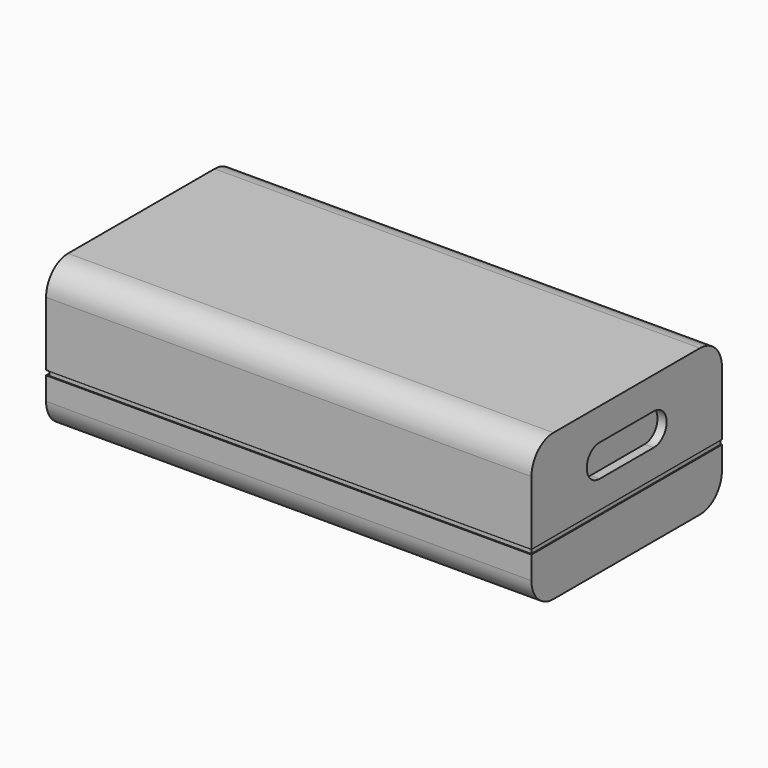
from build123d import *

# Parameters (mm, degrees)
SKETCH_W        = 53
SKETCH_H        = 26
PAD_DEPTH       = 16
FILLET_R        = 3
SKETCH001_W     = 3.5
SKETCH001_H     = 2
POCKET_DEPTH    = 3
SKETCH002_W     = 26
SKETCH002_H     = 0.5
POCKET001_DEPTH = 0.3
SKETCH003_W     = 53
SKETCH003_H     = 0.5
POCKET002_DEPTH = 0.1
SKETCH004_W     = 26
SKETCH004_H     = 0.5
POCKET003_DEPTH = 0.1
SKETCH005_W     = 53
SKETCH005_H     = 0.5
POCKET004_DEPTH = 0.1
SKETCH006_W     = 3.1
SKETCH006_H     = 1
PAD001_DEPTH    = 3
POCKET005_DEPTH = 1


with BuildPart() as part:
    # Sketch → Pad (new body)
    with BuildSketch(Plane.XY):
        Rectangle(SKETCH_W, SKETCH_H)
    extrude(amount=PAD_DEPTH)

    # Fillet
    fillet_edges = [part.edges().sort_by_distance(p)[0] for p in [
        (0, -13, 16),
        (0, -13, 0),
        (0, 13, 16),
        (0, 13, 0),
    ]]
    fillet(fillet_edges, radius=FILLET_R)

    # Sketch001 (on Face2 of Fillet) → Pocket (cut)
    with BuildSketch(Plane(origin=(-26.5, 0, 0), x_dir=(0, -1, 0), z_dir=(-1, 0, 0))):
        with Locations((-2.45, 2)):
            Rectangle(SKETCH001_W, SKETCH001_H)
        with Locations((2.45, 2)):
            Rectangle(SKETCH001_W, SKETCH001_H)
    extrude(amount=-POCKET_DEPTH, mode=Mode.SUBTRACT)

    # Sketch002 (on Face2 of Pocket) → Pocket001 (cut)
    with BuildSketch(Plane(origin=(-26.5, 0, 0), x_dir=(0, -1, 0), z_dir=(-1, 0, 0))):
        with Locations((0, 5.75)):
            Rectangle(SKETCH002_W, SKETCH002_H)
    extrude(amount=-POCKET001_DEPTH, mode=Mode.SUBTRACT)

    # Sketch003 (on Face1 of Pocket001) → Pocket002 (cut)
    with BuildSketch(Plane(origin=(0, 13, 0), x_dir=(-1, 0, 0), z_dir=(0, 1, 0))):
        with Locations((0, 5.75)):
            Rectangle(SKETCH003_W, SKETCH003_H)
    extrude(amount=-POCKET002_DEPTH, mode=Mode.SUBTRACT)

    # Sketch004 (on Face3 of Pocket002) → Pocket003 (cut)
    with BuildSketch(Plane.YZ.offset(26.5)):
        with Locations((0, 5.75)):
            Rectangle(SKETCH004_W, SKETCH004_H)
    extrude(amount=-POCKET003_DEPTH, mode=Mode.SUBTRACT)

    # Sketch005 (on Face10 of Pocket003) → Pocket004 (cut)
    with BuildSketch(Plane.XZ.offset(13)):
        with Locations((0, 5.75)):
            Rectangle(SKETCH005_W, SKETCH005_H)
    extrude(amount=-POCKET004_DEPTH, mode=Mode.SUBTRACT)

    # Sketch006 (on Face7 of Pocket004) → Pad001 (join)
    with BuildSketch(Plane(origin=(-26.5, 0, 0), x_dir=(0, -1, 0), z_dir=(-1, 0, 0))):
        with Locations((-2.45, 1.9)):
            Rectangle(SKETCH006_W, SKETCH006_H)
        with Locations((2.45, 1.9)):
            Rectangle(SKETCH006_W, SKETCH006_H)
    extrude(amount=-PAD001_DEPTH)

    # Sketch007 (on Face45 of Pad001) → Pocket005 (cut)
    with BuildSketch(Plane.YZ.offset(26.5)):
        with BuildLine():
            ThreePointArc((-3.7, 12.5), (-5.45, 10.75), (-3.7, 9))
            Line((-3.7, 9), (3.7, 9))
            ThreePointArc((3.7, 9), (5.45, 10.75), (3.7, 12.5))
            Line((-3.7, 12.5), (3.7, 12.5))
        make_face()
    extrude(amount=-POCKET005_DEPTH, mode=Mode.SUBTRACT)


solid = part.part
